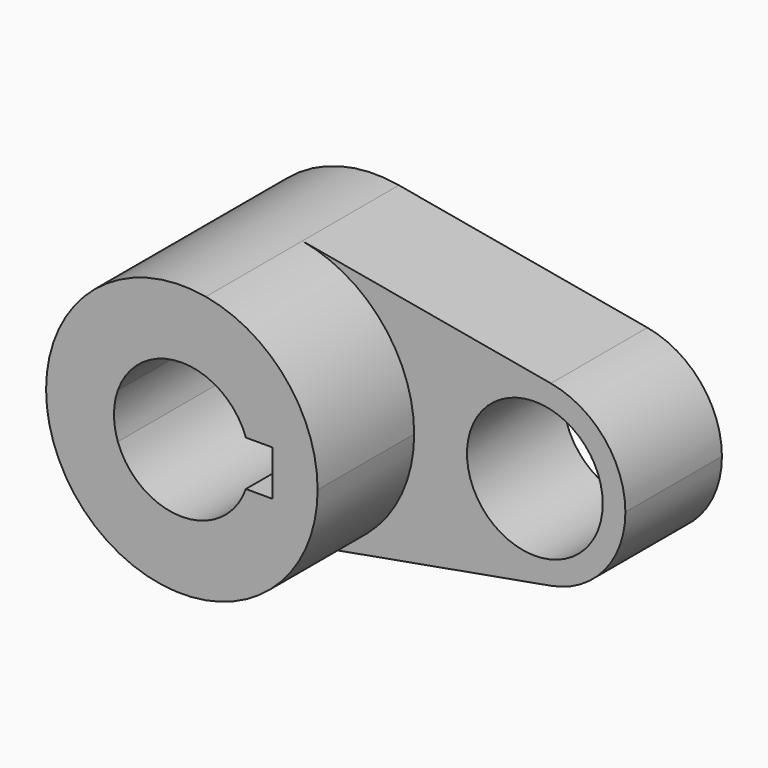
from build123d import *

# Parameters (mm, degrees)
F0_R     = 14.2875
F1_DEPTH = 25.4
F2_DEPTH = 25.4


with BuildPart() as f1:
    # F0 (on Front) → F1 (new body)
    with BuildSketch(Plane.XZ):
        with BuildLine():
            ThreePointArc((5.042647, -28.126541), (21.916025, -18.336262), (28.575, 0))
            ThreePointArc((28.575, 0), (21.916025, 18.336262), (5.042647, 28.126541))
            ThreePointArc((5.042647, 28.126541), (-28.575, 0), (5.042647, -28.126541))
        make_face()
        with BuildLine():
            ThreePointArc((-13.470384, 4.7625), (0, 14.2875), (13.470384, 4.7625))
            Line((13.470384, 4.7625), (19.05, 4.7625))
            Line((19.05, 4.7625), (19.05, -4.7625))
            Line((19.05, -4.7625), (13.470384, -4.7625))
            ThreePointArc((13.470384, -4.7625), (0, -14.2875), (-13.470384, -4.7625))
            Line((-13.470384, -4.7625), (-19.05, -4.7625))
            Line((-19.05, -4.7625), (-19.05, 4.7625))
            Line((-19.05, 4.7625), (-13.470384, 4.7625))
        make_face(mode=Mode.SUBTRACT)
        with BuildLine():
            ThreePointArc((-13.470384, -4.7625), (-14.2875, 0), (-13.470384, 4.7625))
            Line((-13.470384, 4.7625), (-19.05, 4.7625))
            Line((-19.05, 4.7625), (-19.05, -4.7625))
            Line((-19.05, -4.7625), (-13.470384, -4.7625))
        make_face()
        with BuildLine():
            ThreePointArc((5.042647, 28.126541), (21.916025, 18.336262), (28.575, 0))
            ThreePointArc((28.575, 0), (21.916025, -18.336262), (5.042647, -28.126541))
            Line((5.042647, -28.126541), (57.336765, -18.751028))
            ThreePointArc((57.336765, -18.751028), (34.925, 0), (57.336765, 18.751028))
            Line((57.336765, 18.751028), (5.042647, 28.126541))
        make_face()
        with BuildLine():
            ThreePointArc((73.025, 0), (68.585683, 12.224174), (57.336765, 18.751028))
            ThreePointArc((57.336765, 18.751028), (34.925, 0), (57.336765, -18.751028))
            ThreePointArc((57.336765, -18.751028), (68.585683, -12.224174), (73.025, 0))
        make_face()
        with Locations((53.975, 0)):
            Circle(F0_R, mode=Mode.SUBTRACT)
    extrude(amount=-F1_DEPTH)

    # F0 (on Front) → F2 (join)
    with BuildSketch(Plane.XZ):
        with BuildLine():
            ThreePointArc((5.042647, -28.126541), (21.916025, -18.336262), (28.575, 0))
            ThreePointArc((28.575, 0), (21.916025, 18.336262), (5.042647, 28.126541))
            ThreePointArc((5.042647, 28.126541), (-28.575, 0), (5.042647, -28.126541))
        make_face()
        with BuildLine():
            ThreePointArc((-13.470384, 4.7625), (0, 14.2875), (13.470384, 4.7625))
            Line((13.470384, 4.7625), (19.05, 4.7625))
            Line((19.05, 4.7625), (19.05, -4.7625))
            Line((19.05, -4.7625), (13.470384, -4.7625))
            ThreePointArc((13.470384, -4.7625), (0, -14.2875), (-13.470384, -4.7625))
            Line((-13.470384, -4.7625), (-19.05, -4.7625))
            Line((-19.05, -4.7625), (-19.05, 4.7625))
            Line((-19.05, 4.7625), (-13.470384, 4.7625))
        make_face(mode=Mode.SUBTRACT)
        with BuildLine():
            ThreePointArc((-13.470384, -4.7625), (-14.2875, 0), (-13.470384, 4.7625))
            Line((-13.470384, 4.7625), (-19.05, 4.7625))
            Line((-19.05, 4.7625), (-19.05, -4.7625))
            Line((-19.05, -4.7625), (-13.470384, -4.7625))
        make_face()
    extrude(amount=F2_DEPTH)


solid = f1.part
